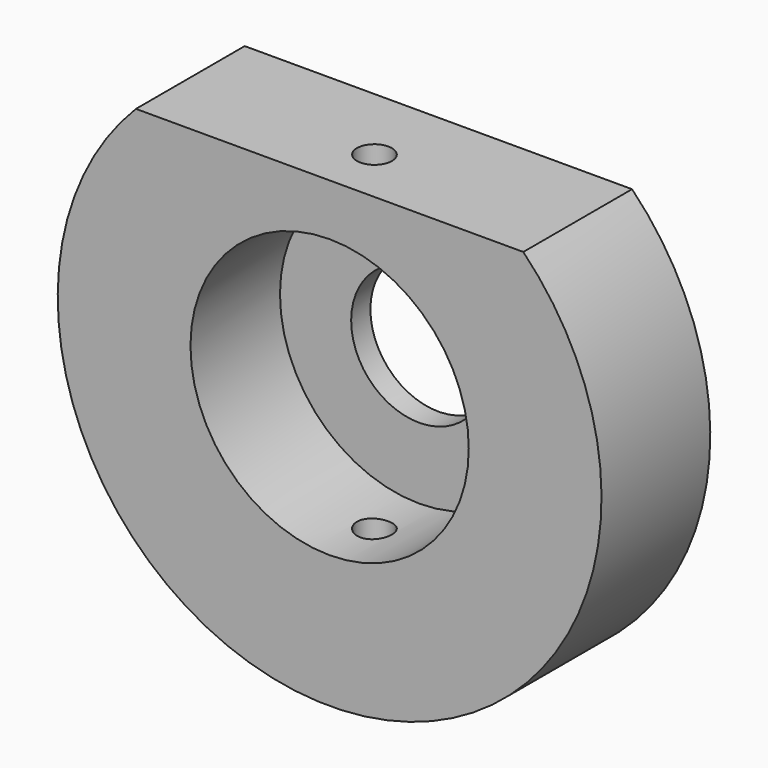
from build123d import *

# Parameters (mm, degrees)
F1_DEPTH = 25.4
F3_R     = 25.9969
F4_DEPTH = 20.9042
F2_R     = 25.9969
F5_DEPTH = 20.9042
F7_D     = 25.4
F7_DEPTH = 21.0058
F7_TIP   = 7.6309298617
F10_D    = 6.5278


with BuildPart() as f1:
    # F0 (on Front) → F1 (new body)
    with BuildSketch(Plane.XZ):
        with BuildLine():
            Line((36.1855936237, 35.6544922009), (-36.1855936237, 35.6544922009))
            ThreePointArc((-36.1855936237, 35.6544922009), (0, -50.8), (36.1855936237, 35.6544922009))
        make_face()
    extrude(amount=F1_DEPTH)

    # F3 (on face) → F4 (join)
    with BuildSketch(Plane.XZ.offset(25.4)):
        Circle(F3_R)
    extrude(amount=-F4_DEPTH)

    # F2 (on face) → F5 (cut)
    with BuildSketch(Plane.XZ.offset(25.4)):
        Circle(F2_R)
    extrude(amount=-F5_DEPTH, mode=Mode.SUBTRACT)

    # F7
    with Locations(Plane.XZ.offset(4.4958)):
        with Locations((0, 0)):
            Hole(F7_D / 2, depth=F7_DEPTH)
            with Locations((0, 0, -(F7_DEPTH + F7_TIP / 2))):  # 118° drill point
                Cone(0, F7_D / 2, F7_TIP, mode=Mode.SUBTRACT)

    # F10 (through all)
    with Locations(Plane.XY.offset(35.6544922009)):
        with Locations((0, -14.9352)):
            Hole(F10_D / 2)


solid = f1.part
